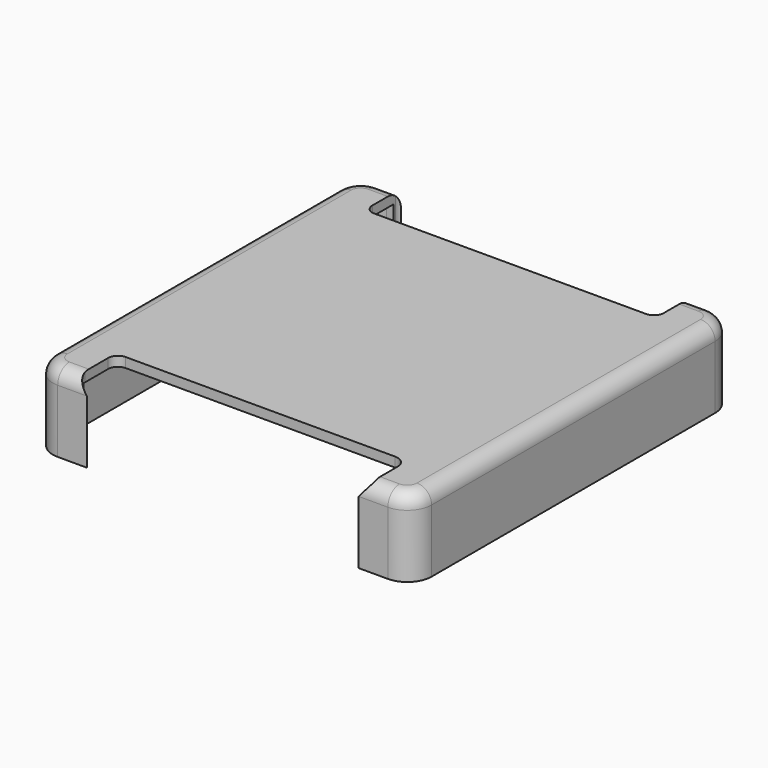
from build123d import *

# Parameters (mm, degrees)
PAD_DEPTH       = 8
FILLET_R        = 1.5
POCKET_DEPTH    = 7
POCKET001_DEPTH = 10
POCKET002_DEPTH = 10


with BuildPart() as part:
    # Sketch → Pad (new body)
    with BuildSketch(Plane.XY):
        with BuildLine():
            Line((-19.5, 18.25), (-19.5, -18.25))
            ThreePointArc((-19.5, -18.25), (-18.767767, -20.017767), (-17, -20.75))
            Line((-17, -20.75), (17, -20.75))
            ThreePointArc((17, -20.75), (18.767767, -20.017767), (19.5, -18.25))
            Line((19.5, -18.25), (19.5, 18.25))
            ThreePointArc((19.5, 18.25), (18.767767, 20.017767), (17, 20.75))
            Line((17, 20.75), (-17, 20.75))
            ThreePointArc((-17, 20.75), (-18.767767, 20.017767), (-19.5, 18.25))
        make_face()
    extrude(amount=PAD_DEPTH)

    # Fillet
    fillet_edges = [part.edges().sort_by_distance(p)[0] for p in [
        (-19.5, 0, 8),
        (-18.767767, -20.017767, 8),
        (0, -20.75, 8),
        (18.767767, -20.017767, 8),
        (19.5, 0, 8),
        (18.767767, 20.017767, 8),
        (0, 20.75, 8),
        (-18.767767, 20.017767, 8),
    ]]
    fillet(fillet_edges, radius=FILLET_R)

    # Sketch001 (on Face4 of Fillet) → Pocket (cut)
    with BuildSketch(Plane(origin=(0, 0, 0), x_dir=(1, 0, 0), z_dir=(0, 0, -1))):
        with BuildLine():
            Line((-18.75, 17), (-18.75, -17))
            ThreePointArc((-18.75, -17), (-17.87132, -19.12132), (-15.75, -20))
            Line((-15.75, -20), (15.75, -20))
            ThreePointArc((15.75, -20), (17.87132, -19.12132), (18.75, -17))
            Line((18.75, -17), (18.75, 17))
            ThreePointArc((18.75, 17), (17.87132, 19.12132), (15.75, 20))
            Line((15.75, 20), (-15.75, 20))
            ThreePointArc((-15.75, 20), (-17.87132, 19.12132), (-18.75, 17))
        make_face()
    extrude(amount=-POCKET_DEPTH, mode=Mode.SUBTRACT)

    # Sketch003 → Pocket001 (cut)
    with BuildSketch(Plane.XY):
        with BuildLine():
            Line((-15, 20.25), (-15, 17.25))
            ThreePointArc((-15, 17.25), (-14.707107, 16.542893), (-14, 16.25))
            Line((-14, 16.25), (14, 16.25))
            ThreePointArc((14, 16.25), (14.707107, 16.542893), (15, 17.25))
            Line((15, 17.25), (15, 20.25))
            ThreePointArc((15, 20.25), (14.707107, 20.957107), (14, 21.25))
            Line((14, 21.25), (-14, 21.25))
            ThreePointArc((-14, 21.25), (-14.707107, 20.957107), (-15, 20.25))
        make_face()
    extrude(amount=POCKET001_DEPTH, mode=Mode.SUBTRACT)

    # Sketch004 → Pocket002 (cut)
    with BuildSketch(Plane.XY):
        with BuildLine():
            Line((-15, -16.75), (-15, -19.75))
            ThreePointArc((-15, -19.75), (-14.707107, -20.457107), (-14, -20.75))
            Line((-14, -20.75), (13.998937, -20.75))
            ThreePointArc((13.998937, -20.75), (14.706044, -20.457107), (14.998937, -19.75))
            Line((14.998937, -19.75), (14.998937, -17.002513))
            ThreePointArc((14.998937, -17.002513), (14.632085, -16.116853), (13.746424, -15.75))
            Line((13.746424, -15.75), (-14, -15.75))
            ThreePointArc((-14, -15.75), (-14.707107, -16.042893), (-15, -16.75))
        make_face()
    extrude(amount=POCKET002_DEPTH, mode=Mode.SUBTRACT)


solid = part.part
